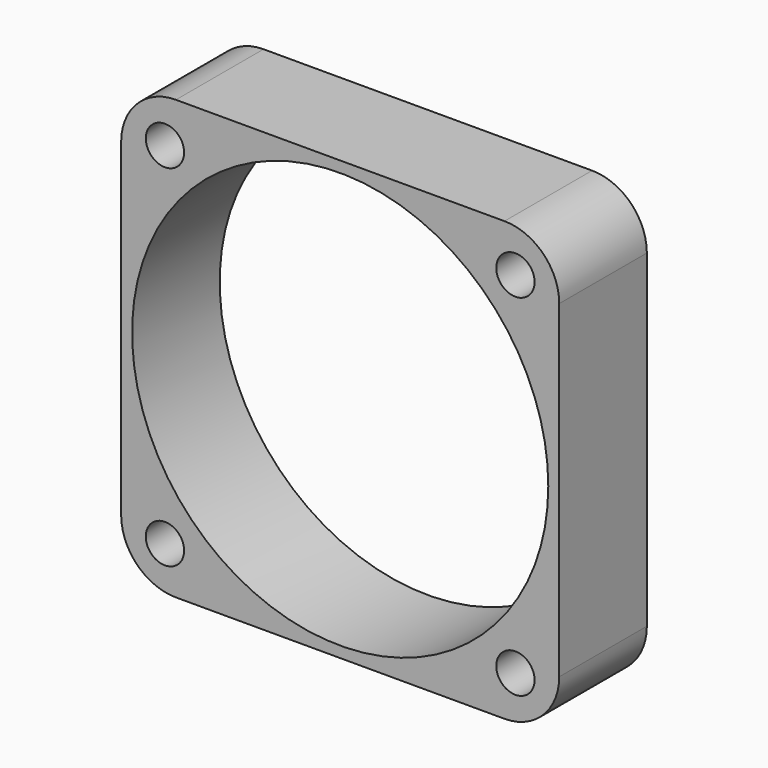
from build123d import *

# Parameters (mm, degrees)
F0_W     = 40
F0_H     = 40
F0_R     = 1.75
F0_R_2   = 19
F1_DEPTH = 10
F2_R     = 5


with BuildPart() as f1:
    # F0 (on Front) → F1 (new body)
    with BuildSketch(Plane.XZ):
        Rectangle(F0_W, F0_H)
        with Locations((-16, -16)):
            Circle(F0_R, mode=Mode.SUBTRACT)
        with Locations((16, -16)):
            Circle(F0_R, mode=Mode.SUBTRACT)
        with Locations((-16, 16)):
            Circle(F0_R, mode=Mode.SUBTRACT)
        Circle(F0_R_2, mode=Mode.SUBTRACT)
        with Locations((16, 16)):
            Circle(F0_R, mode=Mode.SUBTRACT)
    extrude(amount=F1_DEPTH)

    # F2
    f2_edges = [f1.edges().sort_by_distance(p)[0] for p in [
        (-20, -5, 20),
        (20, -5, 20),
        (20, -5, -20),
        (-20, -5, -20),
    ]]
    fillet(f2_edges, radius=F2_R)


solid = f1.part
